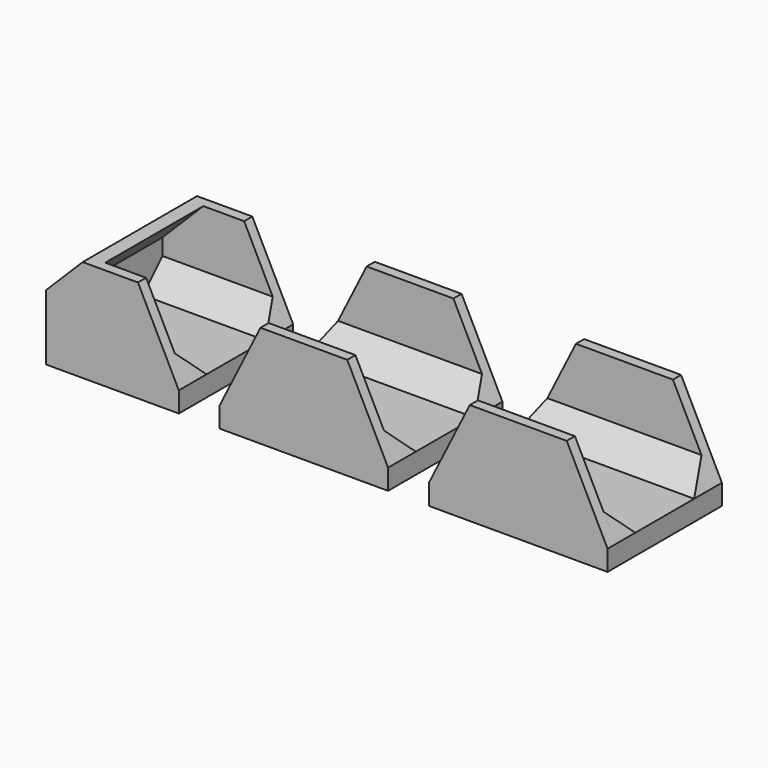
from build123d import *

# Parameters (mm, degrees)
F0_W     = 13.49375
F0_H     = 12.7
F0_W_2   = 15.08125
F0_W_3   = 6.35
F1_DEPTH = 11.1125
F2_DEPTH = 9.525
F3_SIZE  = 3.81


with BuildPart() as f1:
    # F0 (on Front) → F1 (new body, symmetric)
    with BuildSketch(Plane.XZ):
        Polygon((-46.83125, 0), (-40.48125, 0), (-40.48125, 12.7), (-46.83125, 6.35), align=None)
        Polygon((-21.43125, 0), (-15.08125, 0), (-15.08125, 12.7), align=None)
        Polygon((-1.5875, 0), (4.7625, 0), (-1.5875, 12.7), align=None)
        Polygon((-34.13125, 0), (-27.78125, 0), (-34.13125, 12.7), align=None)
        Polygon((17.4625, 12.7), (11.1125, 0), (17.4625, 0), align=None)
        Polygon((32.54375, 0), (38.89375, 0), (32.54375, 12.7), align=None)
        Polygon((4.7625, -3.175), (4.7625, 0), (-1.5875, 0), (-15.08125, 0), (-21.43125, 0), (-21.43125, -3.175), align=None)
        with Locations((-8.334375, 6.35)):
            Rectangle(F0_W, F0_H)
        Polygon((11.1125, 0), (11.1125, -3.175), (38.89375, -3.175), (38.89375, 0), (32.54375, 0), (17.4625, 0), align=None)
        with Locations((25.003125, 6.35)):
            Rectangle(F0_W_2, F0_H)
        Polygon((-48.41875, -3.175), (-46.83125, -3.175), (-46.83125, 0), (-46.83125, 6.35), (-40.48125, 12.7), (-42.726314, 12.7), (-48.41875, 7.007564), (-48.41875, 6.35), align=None)
        with Locations((-37.30625, 6.35)):
            Rectangle(F0_W_3, F0_H)
        Polygon((-27.78125, -3.175), (-27.78125, 0), (-34.13125, 0), (-40.48125, 0), (-46.83125, 0), (-46.83125, -3.175), align=None)
        with Locations((-37.30625, 6.35)):
            Rectangle(F0_W_3, F0_H)
    extrude(amount=F1_DEPTH, both=True)

    # F0 (on Front) → F2 (cut, symmetric)
    with BuildSketch(Plane.XZ):
        Polygon((-46.83125, 0), (-40.48125, 0), (-40.48125, 12.7), (-46.83125, 6.35), align=None)
        with Locations((-37.30625, 6.35)):
            Rectangle(F0_W_3, F0_H)
        Polygon((-34.13125, 0), (-27.78125, 0), (-34.13125, 12.7), align=None)
        with Locations((-8.334375, 6.35)):
            Rectangle(F0_W, F0_H)
        Polygon((-21.43125, 0), (-15.08125, 0), (-15.08125, 12.7), align=None)
        Polygon((-1.5875, 0), (4.7625, 0), (-1.5875, 12.7), align=None)
        Polygon((17.4625, 12.7), (11.1125, 0), (17.4625, 0), align=None)
        with Locations((25.003125, 6.35)):
            Rectangle(F0_W_2, F0_H)
        Polygon((32.54375, 0), (38.89375, 0), (32.54375, 12.7), align=None)
    extrude(amount=F2_DEPTH, both=True, mode=Mode.SUBTRACT)

    # F3
    f3_edges = [f1.edges().sort_by_distance(p)[0] for p in [
        (-37.30625, 9.525, 0),
        (-37.30625, -9.525, 0),
        (-8.334375, -9.525, 0),
        (25.003125, -9.525, 0),
        (-8.334375, 9.525, 0),
        (25.003125, 9.525, 0),
    ]]
    chamfer(f3_edges, length=F3_SIZE)


solid = f1.part
